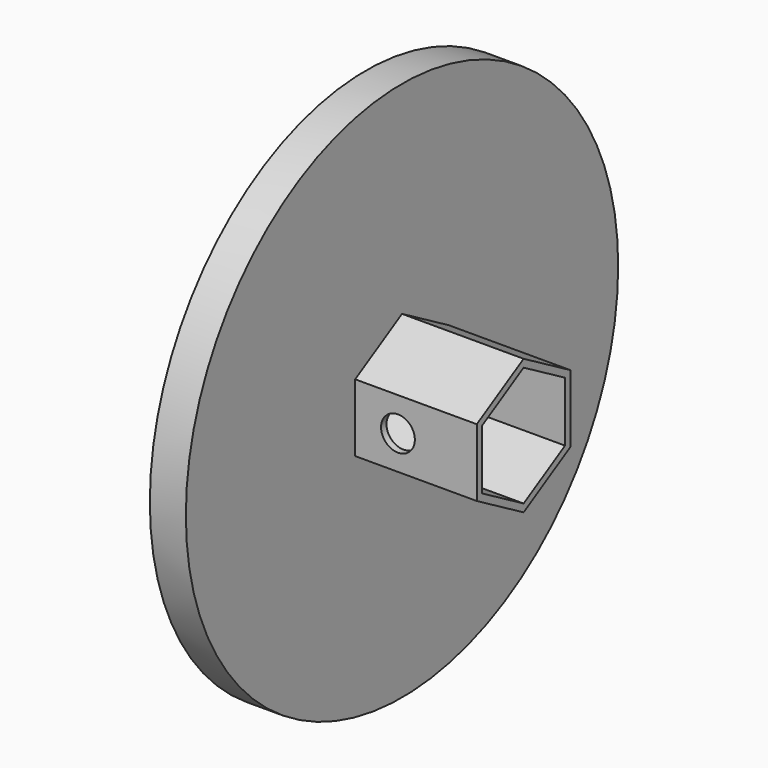
from build123d import *

# Parameters (mm, degrees)
F0_R     = 60
F1_DEPTH = 35
F2_R     = 60
F3_DEPTH = 27
F4_R     = 3.75
F5_DEPTH = 44.75074


with BuildPart() as f1:
    # F0 (on Right) → F1 (new body)
    with BuildSketch(Plane.YZ):
        Circle(F0_R)
        Polygon((0, 13.2790561914), (11.5, 6.6395280957), (11.5, -6.6395280957), (0, -13.2790561914), (-11.5, -6.6395280957), (-11.5, 6.6395280957), align=None, mode=Mode.SUBTRACT)
    extrude(amount=F1_DEPTH)

    # F2 (on face) → F3 (cut)
    with BuildSketch(Plane.YZ.offset(35)):
        Circle(F2_R)
        Polygon((0, 15.0111069989), (13, 7.5055534995), (13, -7.5055534995), (0, -15.0111069989), (-13, -7.5055534995), (-13, 7.5055534995), align=None, mode=Mode.SUBTRACT)
    extrude(amount=-F3_DEPTH, mode=Mode.SUBTRACT)

    # F4 (on face) → F5 (cut)
    with BuildSketch(Plane(origin=(0, 13, 0), x_dir=(-1, 0, 0), z_dir=(0, 1, 0))):
        with Locations((-17.5, 0)):
            Circle(F4_R)
    extrude(amount=-F5_DEPTH, mode=Mode.SUBTRACT)


solid = f1.part
